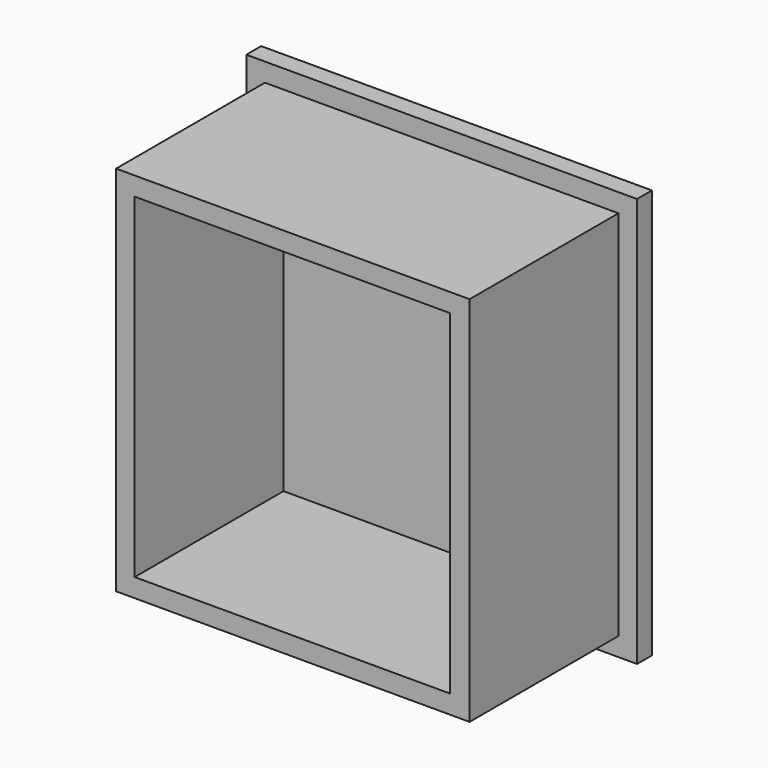
from build123d import *

# Parameters (mm, degrees)
F0_W     = 38
F0_H     = 40
F0_W_2   = 33.907328
F0_H_2   = 36
F1_DEPTH = 20
F2_W     = 42
F2_H     = 44
F3_DEPTH = 2


with BuildPart() as f1:
    # F0 (on Front) → F1 (new body)
    with BuildSketch(Plane.XZ):
        with Locations((1.039558, -20.108323)):
            Rectangle(F0_W, F0_H)
        with Locations((0.993222, -20.108323)):
            Rectangle(F0_W_2, F0_H_2, mode=Mode.SUBTRACT)
    extrude(amount=F1_DEPTH)

    # F2 (on Front) → F3 (join)
    with BuildSketch(Plane.XZ):
        with Locations((1.039558, -20.108323)):
            Rectangle(F2_W, F2_H)
    extrude(amount=-F3_DEPTH)


solid = f1.part
